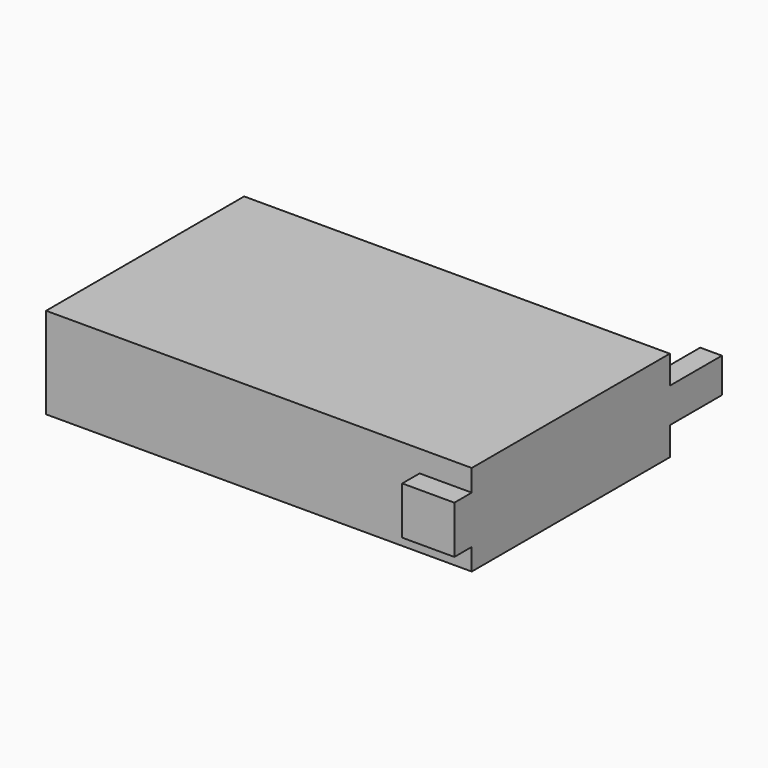
from build123d import *

# Parameters (mm, degrees)
F0_W     = 98
F0_H     = 57
F1_DEPTH = 21
F2_W     = 5
F2_H     = 8
F3_DEPTH = 15
F4_W     = 12
F4_H     = 11
F5_DEPTH = 5


with BuildPart() as f1:
    # F0 (on Top) → F1 (new body)
    with BuildSketch(Plane.XY):
        with Locations((49, 28.5)):
            Rectangle(F0_W, F0_H)
    extrude(amount=F1_DEPTH)

    # F2 (on face) → F3 (join)
    with BuildSketch(Plane(origin=(0, 57, 0), x_dir=(-1, 0, 0), z_dir=(0, 1, 0))):
        with Locations((-95.5, 10.5)):
            Rectangle(F2_W, F2_H)
    extrude(amount=F3_DEPTH)

    # F4 (on face) → F5 (join)
    with BuildSketch(Plane.XZ):
        with Locations((92, 10.5)):
            Rectangle(F4_W, F4_H)
    extrude(amount=F5_DEPTH)


solid = f1.part
